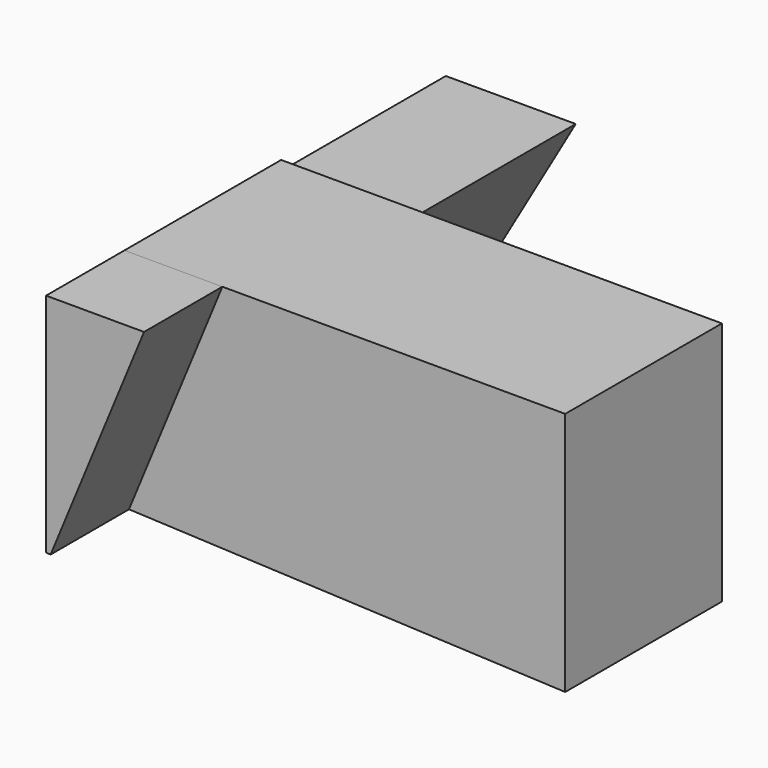
from build123d import *

# Parameters (mm, degrees)
F2_DEPTH = 25.4
F4_DEPTH = 12.7
F7_DEPTH = 25.4


with BuildPart() as f2:
    # F1 (on Front) → F2 (new body)
    with BuildSketch(Plane.XZ):
        Polygon((5.1933536553, 14.8594833362), (-51.9565972747, 14.9343745474), (-51.9565972747, -14.4059932236), (5.1933536553, -16.8905166638), align=None)
    extrude(amount=F2_DEPTH)

    # F3 (on face) + F2_face1 (on face) → F4 (join)
    with BuildSketch(Plane.XZ.offset(25.4)):
        Polygon((-51.3677446578, -14.4315928628), (-39.2566081791, 14.917732056), (-51.9565972747, 14.9343745474), (-51.9565972747, -14.4059932236), align=None)
    with BuildSketch(Plane(origin=(-23.0059205639, 0, -0.3840757402), x_dir=(1, 0, 0), z_dir=(0, 1, 0))):
        Polygon((28.1992742193, -15.2435590764), (28.1992742193, 16.5064409236), (-28.9506767108, 14.0219174834), (-28.9506767108, -15.3184502876), align=None)
    extrude(amount=F4_DEPTH, dir=(0, -1, 0))

    # F6 (on face) → F7 (join)
    with BuildSketch(Plane(origin=(0, 0, 0), x_dir=(-1, 0, 0), z_dir=(0, 1, 0))):
        Polygon((34.0825431049, 14.5258735865), (50.9283207357, -14.6334338933), (50.9283207357, 14.5258735865), align=None)
    extrude(amount=F7_DEPTH)


solid = f2.part
